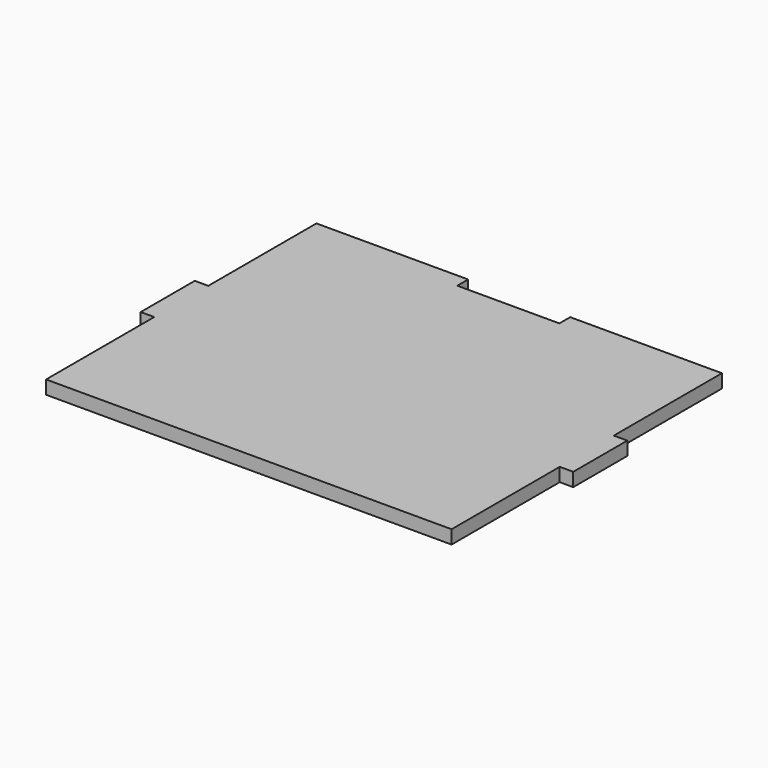
from build123d import *

# Parameters (mm, degrees)
F1_DEPTH = 4


with BuildPart() as f1:
    # F0 (on Top) → F1 (new body)
    with BuildSketch(Plane.XY):
        Polygon((-15.1, 50), (-60, 50), (-60, 10), (-64, 10), (-64, -10), (-60, -10), (-60, -50), (60, -50), (60, -10), (64, -10), (64, 10), (60, 10), (60, 50), (15.1, 50), (15.1, 46), (-15.1, 46), align=None)
    extrude(amount=F1_DEPTH)


solid = f1.part
